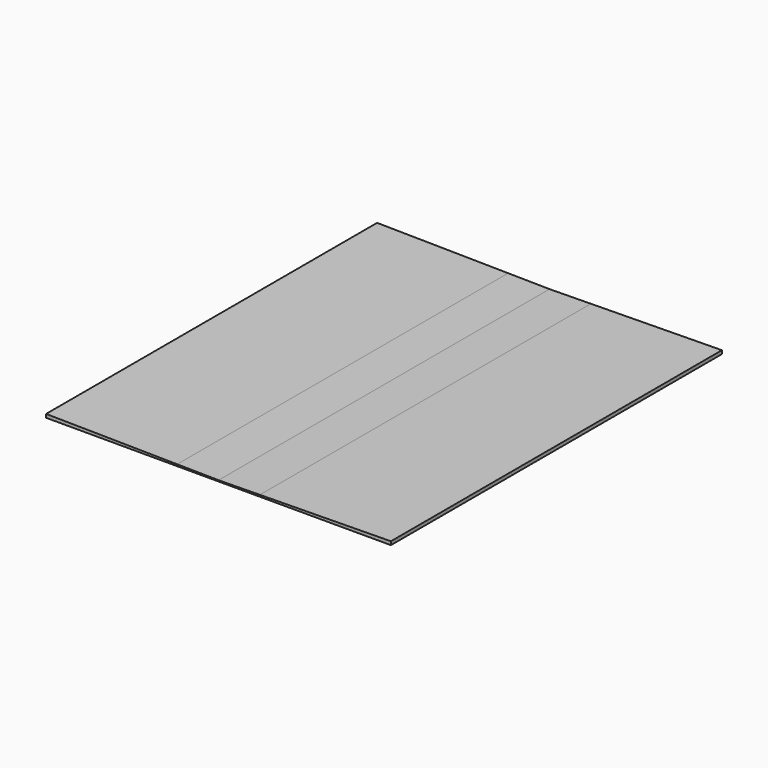
from build123d import *

# Parameters (mm, degrees)
F0_W     = 7620
F0_H     = 9144
F1_DEPTH = 76.2
F3_DEPTH = 9144


with BuildPart() as f1:
    # F0 (on Top) → F1 (new body)
    with BuildSketch(Plane.XY):
        Rectangle(F0_W, F0_H)
    extrude(amount=F1_DEPTH)

    # F2 (on face) → F3 (cut, through all)
    with BuildSketch(Plane.XZ.offset(4572)):
        Polygon((914.4, 38.1), (3810, 76.2), (-3810, 76.2), (-914.4, 38.1), (0, 25.4), align=None)
    extrude(amount=-F3_DEPTH, mode=Mode.SUBTRACT)


solid = f1.part
